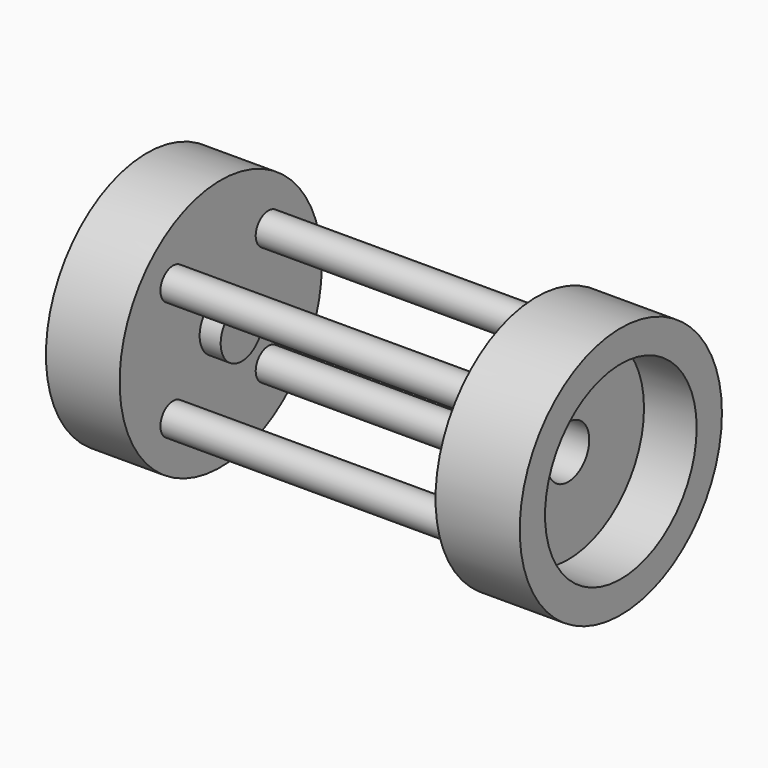
from build123d import *

# Parameters (mm, degrees)
F0_R      = 120
F1_DEPTH  = 70
F2_R      = 25
F3_DEPTH  = 20
F4_R      = 15
F5_DEPTH  = 300
F6_R      = 120
F7_DEPTH  = 80
F8_R      = 90
F9_DEPTH  = 50
F10_R     = 25
F11_DEPTH = 60


with BuildPart() as f1:
    # F0 (on Right) → F1 (new body)
    with BuildSketch(Plane.YZ):
        Circle(F0_R)
    extrude(amount=F1_DEPTH)

    # F2 (on face) → F3 (join)
    with BuildSketch(Plane.YZ.offset(70)):
        Circle(F2_R)
    extrude(amount=F3_DEPTH)

    # F4 (on face) → F5 (join)
    with BuildSketch(Plane.YZ.offset(70)):
        with Locations((-56.5685424949, -56.5685424949)):
            Circle(F4_R)
        with Locations((-56.5685424949, 56.5685424949)):
            Circle(F4_R)
        with Locations((56.5685424949, 56.5685424949)):
            Circle(F4_R)
        with Locations((56.5685424949, -56.5685424949)):
            Circle(F4_R)
    extrude(amount=F5_DEPTH)

    # F6 (on face) → F7 (join)
    with BuildSketch(Plane.YZ.offset(370)):
        Circle(F6_R)
    extrude(amount=F7_DEPTH)

    # F8 (on face) → F9 (cut)
    with BuildSketch(Plane.YZ.offset(450)):
        Circle(F8_R)
    extrude(amount=-F9_DEPTH, mode=Mode.SUBTRACT)

    # F10 (on face) → F11 (cut)
    with BuildSketch(Plane.YZ.offset(400)):
        Circle(F10_R)
    extrude(amount=-F11_DEPTH, mode=Mode.SUBTRACT)


solid = f1.part
